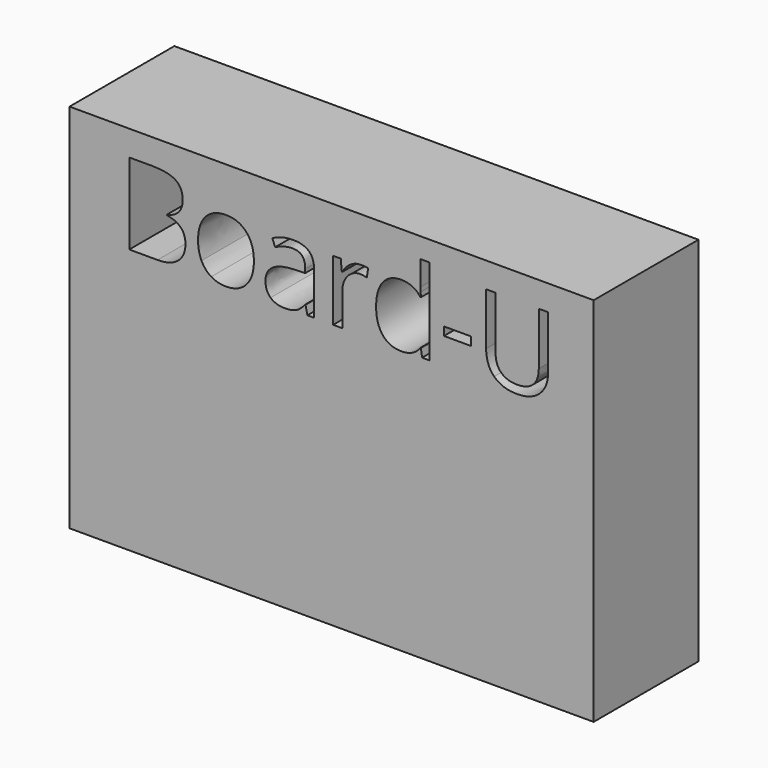
from build123d import *

# Parameters (mm, degrees)
F0_W     = 120
F0_H     = 85
F0_W_2   = 6.2300768045
F0_H_2   = 1.9291306924
F1_DEPTH = 30


with BuildPart() as f1:
    # F0 (on Front) → F1 (new body)
    with BuildSketch(Plane.XZ):
        with Locations((-74.9865994975, -42.5)):
            Rectangle(F0_W, F0_H)
        with BuildLine():
            Line((-121.3085489491, -24.3586543947), (-121.3085489491, -5.8024477979))
            Line((-121.3085489491, -5.8024477979), (-116.0653747936, -5.8024477979))
            add(Edge.make_bspline(
                [(-116.0653747936, -5.8024477979), (-112.3736278476, -5.8024477979), (-110.7226981077, -6.9071289523)],
                knots=[0, 0, 0, 1, 1, 1], degree=2))
            add(Edge.make_bspline(
                [(-110.7226981077, -6.9071289523), (-109.0717683678, -8.0118101066), (-109.0717683678, -10.3958095096)],
                knots=[0, 0, 0, 1, 1, 1], degree=2))
            add(Edge.make_bspline(
                [(-109.0717683678, -10.3958095096), (-109.0717683678, -12.0487699134), (-109.9916591084, -13.1209604456)],
                knots=[0, 0, 0, 1, 1, 1], degree=2))
            add(Edge.make_bspline(
                [(-109.9916591084, -13.1209604456), (-110.9115498491, -14.1931509778), (-112.6782274306, -14.5099345441)],
                knots=[0, 0, 0, 1, 1, 1], degree=2))
            Line((-112.6782274306, -14.5099345441), (-112.6782274306, -14.6358357051))
            add(Edge.make_bspline(
                [(-112.6782274306, -14.6358357051), (-108.4503852184, -15.3587520488), (-108.4503852184, -19.0789282893)],
                knots=[0, 0, 0, 1, 1, 1], degree=2))
            add(Edge.make_bspline(
                [(-108.4503852184, -19.0789282893), (-108.4503852184, -21.5644608866), (-110.1317749166, -22.9615576407)],
                knots=[0, 0, 0, 1, 1, 1], degree=2))
            add(Edge.make_bspline(
                [(-110.1317749166, -22.9615576407), (-111.8131646148, -24.3586543947), (-114.8347924783, -24.3586543947)],
                knots=[0, 0, 0, 1, 1, 1], degree=2))
            Line((-114.8347924783, -24.3586543947), (-121.3085489491, -24.3586543947))
        make_face(mode=Mode.SUBTRACT)
        with BuildLine():
            add(Edge.make_bspline(
                [(-94.4976936528, -12.1360884606), (-92.7777213407, -14.0794338002), (-92.7777213407, -17.3894159355)],
                knots=[0, 0, 0, 1, 1, 1], degree=2))
            add(Edge.make_bspline(
                [(-92.7777213407, -17.3894159355), (-92.7777213407, -20.7928086097), (-94.4895709972, -22.7036633271)],
                knots=[0, 0, 0, 1, 1, 1], degree=2))
            add(Edge.make_bspline(
                [(-94.4895709972, -22.7036633271), (-96.2014206537, -24.6145180445), (-99.2230485172, -24.6145180445)],
                knots=[0, 0, 0, 1, 1, 1], degree=2))
            add(Edge.make_bspline(
                [(-99.2230485172, -24.6145180445), (-101.0912592929, -24.6145180445), (-102.5370919803, -23.7372712454)],
                knots=[0, 0, 0, 1, 1, 1], degree=2))
            add(Edge.make_bspline(
                [(-102.5370919803, -23.7372712454), (-103.9829246676, -22.8600244463), (-104.7708222557, -21.2233093536)],
                knots=[0, 0, 0, 1, 1, 1], degree=2))
            add(Edge.make_bspline(
                [(-104.7708222557, -21.2233093536), (-105.5587198437, -19.5865942609), (-105.5587198437, -17.3894159355)],
                knots=[0, 0, 0, 1, 1, 1], degree=2))
            add(Edge.make_bspline(
                [(-105.5587198437, -17.3894159355), (-105.5587198437, -13.9900845891), (-103.8570235067, -12.0914138551)],
                knots=[0, 0, 0, 1, 1, 1], degree=2))
            add(Edge.make_bspline(
                [(-103.8570235067, -12.0914138551), (-102.1553271696, -10.192743121), (-99.1336993061, -10.192743121)],
                knots=[0, 0, 0, 1, 1, 1], degree=2))
            add(Edge.make_bspline(
                [(-99.1336993061, -10.192743121), (-96.2176659648, -10.192743121), (-94.4976936528, -12.1360884606)],
                knots=[0, 0, 0, 1, 1, 1], degree=2))
        make_face(mode=Mode.SUBTRACT)
        with BuildLine():
            Line((-78.9651455832, -24.3586543947), (-80.528756776, -24.3586543947))
            Line((-80.528756776, -24.3586543947), (-80.9470735367, -22.3767264413))
            Line((-80.9470735367, -22.3767264413), (-81.048606731, -22.3767264413))
            add(Edge.make_bspline(
                [(-81.048606731, -22.3767264413), (-82.088306641, -23.6844739844), (-83.1219145593, -24.1494960144)],
                knots=[0, 0, 0, 1, 1, 1], degree=2))
            add(Edge.make_bspline(
                [(-83.1219145593, -24.1494960144), (-84.1555224777, -24.6145180445), (-85.7069496871, -24.6145180445)],
                knots=[0, 0, 0, 1, 1, 1], degree=2))
            add(Edge.make_bspline(
                [(-85.7069496871, -24.6145180445), (-87.7741655238, -24.6145180445), (-88.9478892503, -23.5463888401)],
                knots=[0, 0, 0, 1, 1, 1], degree=2))
            add(Edge.make_bspline(
                [(-88.9478892503, -23.5463888401), (-90.1216129769, -22.4782596356), (-90.1216129769, -20.5125769933)],
                knots=[0, 0, 0, 1, 1, 1], degree=2))
            add(Edge.make_bspline(
                [(-90.1216129769, -20.5125769933), (-90.1216129769, -16.3009800922), (-83.3838702007, -16.0979137036)],
                knots=[0, 0, 0, 1, 1, 1], degree=2))
            Line((-83.3838702007, -16.0979137036), (-81.0242387644, -16.0207484759))
            Line((-81.0242387644, -16.0207484759), (-81.0242387644, -15.1556856601))
            add(Edge.make_bspline(
                [(-81.0242387644, -15.1556856601), (-81.0242387644, -13.5189705674), (-81.7268484692, -12.7391956349)],
                knots=[0, 0, 0, 1, 1, 1], degree=2))
            add(Edge.make_bspline(
                [(-81.7268484692, -12.7391956349), (-82.429458174, -11.9594207024), (-83.9808853834, -11.9594207024)],
                knots=[0, 0, 0, 1, 1, 1], degree=2))
            add(Edge.make_bspline(
                [(-83.9808853834, -11.9594207024), (-85.7191336705, -11.9594207024), (-87.9122506681, -13.0234885791)],
                knots=[0, 0, 0, 1, 1, 1], degree=2))
            Line((-87.9122506681, -13.0234885791), (-88.5620631119, -11.411141453))
            add(Edge.make_bspline(
                [(-88.5620631119, -11.411141453), (-87.5345471852, -10.854739548), (-86.3100568615, -10.5379559817)],
                knots=[0, 0, 0, 1, 1, 1], degree=2))
            add(Edge.make_bspline(
                [(-86.3100568615, -10.5379559817), (-85.0855665378, -10.2211724154), (-83.8509228947, -10.2211724154)],
                knots=[0, 0, 0, 1, 1, 1], degree=2))
            add(Edge.make_bspline(
                [(-83.8509228947, -10.2211724154), (-81.3653902973, -10.2211724154), (-80.1652679403, -11.3238229059)],
                knots=[0, 0, 0, 1, 1, 1], degree=2))
            add(Edge.make_bspline(
                [(-80.1652679403, -11.3238229059), (-78.9651455832, -12.4264733964), (-78.9651455832, -14.8632700604)],
                knots=[0, 0, 0, 1, 1, 1], degree=2))
            Line((-78.9651455832, -14.8632700604), (-78.9651455832, -24.3586543947))
        make_face(mode=Mode.SUBTRACT)
        with BuildLine():
            add(Edge.make_bspline(
                [(-70.6800369254, -10.9298741119), (-69.5875397543, -10.192743121), (-68.2797922113, -10.192743121)],
                knots=[0, 0, 0, 1, 1, 1], degree=2))
            add(Edge.make_bspline(
                [(-68.2797922113, -10.192743121), (-67.3538094789, -10.192743121), (-66.618709152, -10.3470735764)],
                knots=[0, 0, 0, 1, 1, 1], degree=2))
            Line((-66.618709152, -10.3470735764), (-66.9111247516, -12.3005722354))
            add(Edge.make_bspline(
                [(-66.9111247516, -12.3005722354), (-67.7721262396, -12.10968983), (-68.4341226667, -12.10968983)],
                knots=[0, 0, 0, 1, 1, 1], degree=2))
            add(Edge.make_bspline(
                [(-68.4341226667, -12.10968983), (-70.1236350204, -12.10968983), (-71.3217267136, -13.4803879536)],
                knots=[0, 0, 0, 1, 1, 1], degree=2))
            add(Edge.make_bspline(
                [(-71.3217267136, -13.4803879536), (-72.5198184068, -14.8510860771), (-72.5198184068, -16.8939339472)],
                knots=[0, 0, 0, 1, 1, 1], degree=2))
            Line((-72.5198184068, -16.8939339472), (-72.5198184068, -24.3586543947))
            Line((-72.5198184068, -24.3586543947), (-74.6276475212, -24.3586543947))
            Line((-74.6276475212, -24.3586543947), (-74.6276475212, -10.4486067707))
            Line((-74.6276475212, -10.4486067707), (-72.8893992342, -10.4486067707))
            Line((-72.8893992342, -10.4486067707), (-72.6457195677, -13.0234885791))
            Line((-72.6457195677, -13.0234885791), (-72.5441863734, -13.0234885791))
            add(Edge.make_bspline(
                [(-72.5441863734, -13.0234885791), (-71.7725340965, -11.6670051027), (-70.6800369254, -10.9298741119)],
                knots=[0, 0, 0, 1, 1, 1], degree=2))
        make_face(mode=Mode.SUBTRACT)
        with Locations((-46.1374331905, -17.3914465994)):
            Rectangle(F0_W_2, F0_H_2, mode=Mode.SUBTRACT)
        with BuildLine():
            Line((-54.2682113929, -24.3586543947), (-54.5484430093, -22.4945049467))
            Line((-54.5484430093, -22.4945049467), (-54.6621601869, -22.4945049467))
            add(Edge.make_bspline(
                [(-54.6621601869, -22.4945049467), (-56.1201768576, -24.6145180445), (-59.0280875434, -24.6145180445)],
                knots=[0, 0, 0, 1, 1, 1], degree=2))
            add(Edge.make_bspline(
                [(-59.0280875434, -24.6145180445), (-61.7572998071, -24.6145180445), (-63.2742057305, -22.7483379326)],
                knots=[0, 0, 0, 1, 1, 1], degree=2))
            add(Edge.make_bspline(
                [(-63.2742057305, -22.7483379326), (-64.7911116539, -20.8821578207), (-64.7911116539, -17.4422131966)],
                knots=[0, 0, 0, 1, 1, 1], degree=2))
            add(Edge.make_bspline(
                [(-64.7911116539, -17.4422131966), (-64.7911116539, -14.0022685725), (-63.2681137389, -12.0975058467)],
                knots=[0, 0, 0, 1, 1, 1], degree=2))
            add(Edge.make_bspline(
                [(-63.2681137389, -12.0975058467), (-61.7451158238, -10.192743121), (-59.0280875434, -10.192743121)],
                knots=[0, 0, 0, 1, 1, 1], degree=2))
            add(Edge.make_bspline(
                [(-59.0280875434, -10.192743121), (-56.1973420853, -10.192743121), (-54.6865281536, -12.2518363021)],
                knots=[0, 0, 0, 1, 1, 1], degree=2))
            Line((-54.6865281536, -12.2518363021), (-54.5200137149, -12.2518363021))
            Line((-54.5200137149, -12.2518363021), (-54.6093629259, -11.2486883421))
            Line((-54.6093629259, -11.2486883421), (-54.6621601869, -10.2699083487))
            Line((-54.6621601869, -10.2699083487), (-54.6621601869, -4.6084174325))
            Line((-54.6621601869, -4.6084174325), (-52.5543310725, -4.6084174325))
            Line((-52.5543310725, -4.6084174325), (-52.5543310725, -24.3586543947))
            Line((-52.5543310725, -24.3586543947), (-54.2682113929, -24.3586543947))
        make_face(mode=Mode.SUBTRACT)
        with BuildLine():
            Line((-27.5527972992, -5.8024477979), (-25.3962322515, -5.8024477979))
            Line((-25.3962322515, -5.8024477979), (-25.3962322515, -17.8077326962))
            add(Edge.make_bspline(
                [(-25.3962322515, -17.8077326962), (-25.3962322515, -20.983691015), (-27.3131789606, -22.7991045297)],
                knots=[0, 0, 0, 1, 1, 1], degree=2))
            add(Edge.make_bspline(
                [(-27.3131789606, -22.7991045297), (-29.2301256696, -24.6145180445), (-32.5807210827, -24.6145180445)],
                knots=[0, 0, 0, 1, 1, 1], degree=2))
            add(Edge.make_bspline(
                [(-32.5807210827, -24.6145180445), (-35.9313164958, -24.6145180445), (-37.7650059855, -22.7848898825)],
                knots=[0, 0, 0, 1, 1, 1], degree=2))
            add(Edge.make_bspline(
                [(-37.7650059855, -22.7848898825), (-39.5986954752, -20.9552617206), (-39.5986954752, -17.7589967629)],
                knots=[0, 0, 0, 1, 1, 1], degree=2))
            Line((-39.5986954752, -17.7589967629), (-39.5986954752, -5.8024477979))
            Line((-39.5986954752, -5.8024477979), (-37.4380690998, -5.8024477979))
            Line((-37.4380690998, -5.8024477979), (-37.4380690998, -17.9092658905))
            add(Edge.make_bspline(
                [(-37.4380690998, -17.9092658905), (-37.4380690998, -20.2323453769), (-36.1689041706, -21.4771423395)],
                knots=[0, 0, 0, 1, 1, 1], degree=2))
            add(Edge.make_bspline(
                [(-36.1689041706, -21.4771423395), (-34.8997392414, -22.721939302), (-32.4385746106, -22.721939302)],
                knots=[0, 0, 0, 1, 1, 1], degree=2))
            add(Edge.make_bspline(
                [(-32.4385746106, -22.721939302), (-30.0911271576, -22.721939302), (-28.8219622284, -21.4710503478)],
                knots=[0, 0, 0, 1, 1, 1], degree=2))
            add(Edge.make_bspline(
                [(-28.8219622284, -21.4710503478), (-27.5527972992, -20.2201613936), (-27.5527972992, -17.8848979239)],
                knots=[0, 0, 0, 1, 1, 1], degree=2))
            Line((-27.5527972992, -17.8848979239), (-27.5527972992, -5.8024477979))
        make_face(mode=Mode.SUBTRACT)
    extrude(amount=F1_DEPTH)


solid = f1.part
